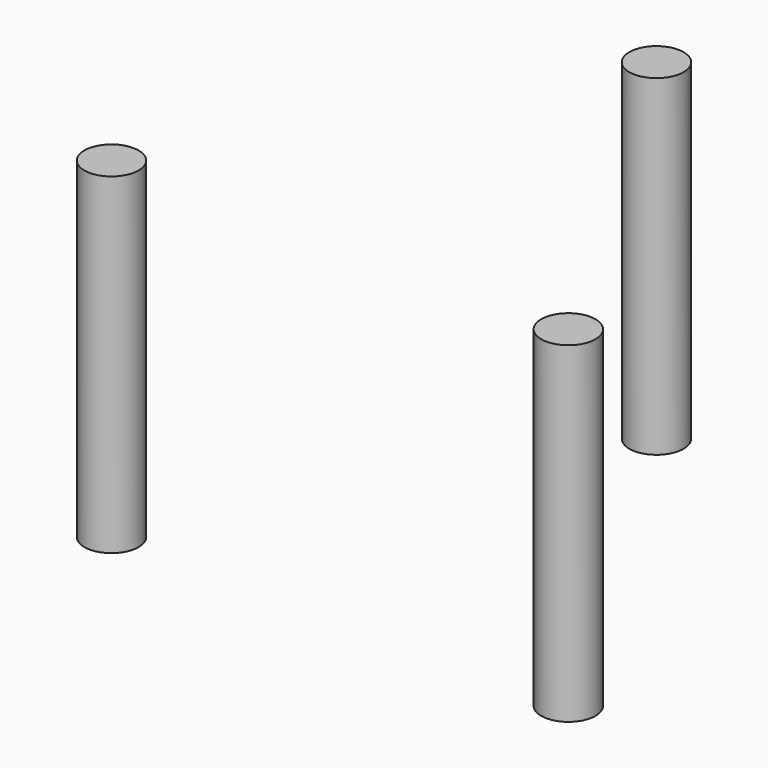
from build123d import *

# Parameters (mm, degrees)
CYLINDER034_R               = 0.9
CYLINDER034_DEPTH           = 11
CYLINDER035_R               = 0.9
CYLINDER035_DEPTH           = 11
CYLINDER035_PLACEMENT_ANGLE = -60
CYLINDER033_R               = 0.9
CYLINDER033_DEPTH           = 11
CYLINDER033_PLACEMENT_ANGLE = 60


with BuildPart() as cylinder034:
    # Cylinder034 → Cylinder034 (new body)
    with BuildSketch(Plane(origin=(0, 8.75, -2.5), x_dir=(-1, 0, 0), z_dir=(0, 0, 1))):
        Circle(CYLINDER034_R)
    extrude(amount=CYLINDER034_DEPTH)


with BuildPart() as cylinder035:
    # Cylinder035 → Cylinder035 (new body)
    with BuildSketch(Plane.XY):
        Circle(CYLINDER035_R)
    extrude(amount=CYLINDER035_DEPTH)


with BuildPart() as cylinder035_1:
    # Cylinder035 placement: moved
    add(cylinder035.part.moved(Location((-7.577722, -4.375, -2.5))).rotate(Axis((-7.577722, -4.375, -2.5), (0, 0, 1)), CYLINDER035_PLACEMENT_ANGLE))


with BuildPart() as fusion010:
    # Cylinder033 → Cylinder033 (new body)
    with BuildSketch(Plane.XY):
        Circle(CYLINDER033_R)
    extrude(amount=CYLINDER033_DEPTH)


with BuildPart() as fusion010_1:
    # Cylinder033 placement: moved
    add(fusion010.part.moved(Location((7.577722, -4.375, -2.5))).rotate(Axis((7.577722, -4.375, -2.5), (0, 0, 1)), CYLINDER033_PLACEMENT_ANGLE))

    # Fusion010: union Cylinder034, Cylinder035
    add(cylinder034.part)
    add(cylinder035_1.part)


with BuildPart() as fusion010_2:
    # Fusion010 placement: moved
    add(fusion010_1.part.moved(Location((0, 0, -0.5))))


solid = fusion010_2.part
